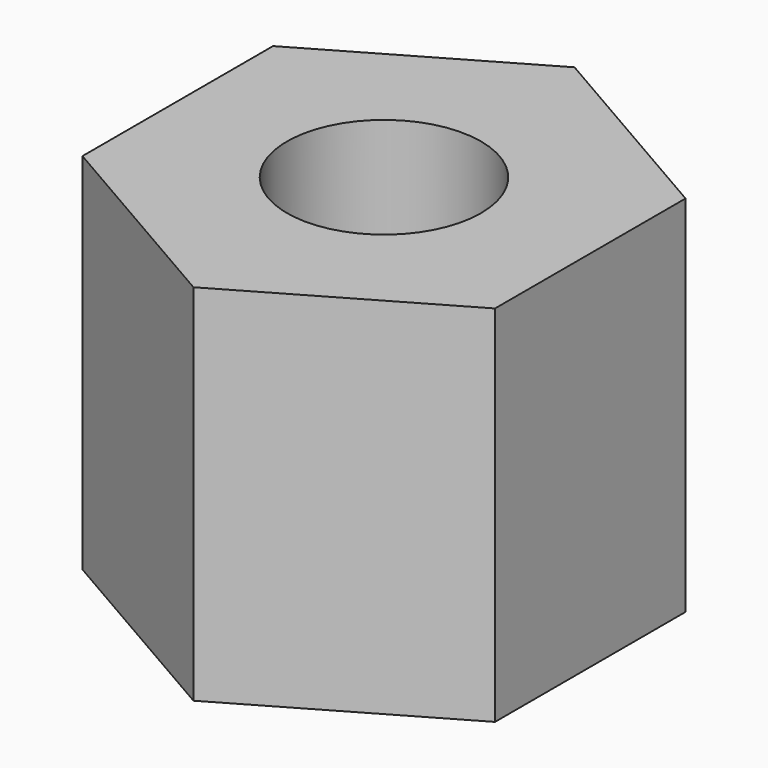
from build123d import *

# Parameters (mm, degrees)
F0_R     = 4
F1_DEPTH = 7.5


with BuildPart() as f1:
    # F0 (on Top) → F1 (new body, symmetric)
    with BuildSketch(Plane.XY):
        Polygon((0, -9.814955), (8.5, -4.907477), (8.5, 4.907477), (0, 9.814955), (-8.5, 4.907477), (-8.5, -4.907477), align=None)
        Circle(F0_R, mode=Mode.SUBTRACT)
    extrude(amount=F1_DEPTH, both=True)


with BuildPart() as f1_1:
    # F2: moved
    add(f1.part.moved(Location((50, 50, 0))))


solid = f1_1.part
